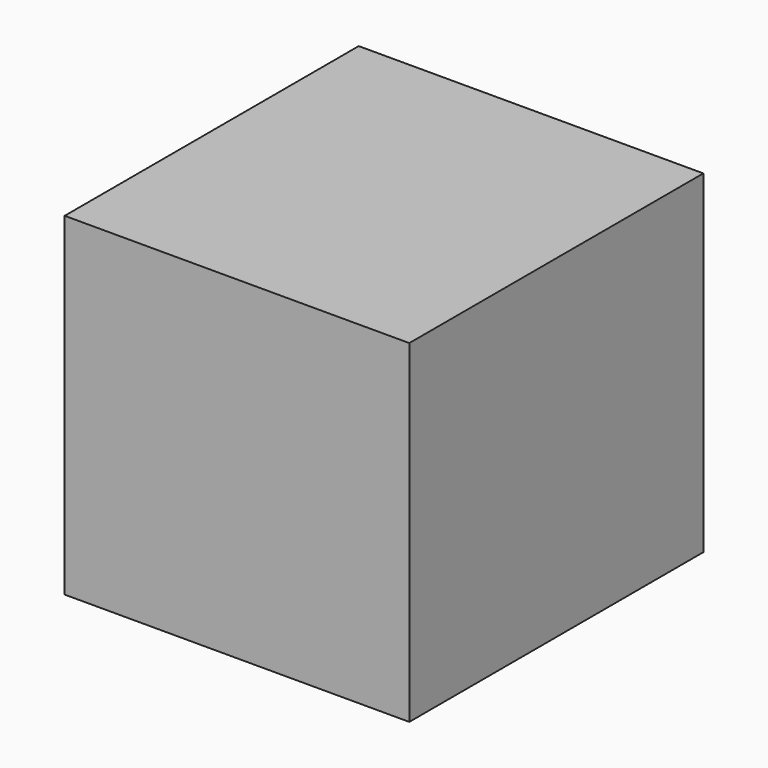
from build123d import *

# Parameters (mm, degrees)
F0_W      = 46.048916
F0_H      = 43.746476
F1_DEPTH  = 50.8
F1_FACE_W = 46.048916
F1_FACE_H = 43.746476
F2_DEPTH  = 25.4
F2_FACE_W = 46.048916
F2_FACE_H = 76.2
F3_DEPTH  = 25.4
F3_FACE_W = 76.2
F3_FACE_H = 69.146476
F4_DEPTH  = 25.4


with BuildPart() as f1:
    # F0 (on Front) → F1 (new body)
    with BuildSketch(Plane.XZ):
        Rectangle(F0_W, F0_H)
    extrude(amount=F1_DEPTH)

    # F1_face (on face) → F2 (join)
    with BuildSketch(Plane.XZ.offset(50.8)):
        Rectangle(F1_FACE_W, F1_FACE_H)
    extrude(amount=F2_DEPTH)

    # F2_face (on face) → F3 (join)
    with BuildSketch(Plane(origin=(0, -38.1, -21.873238), x_dir=(1, 0, 0), z_dir=(0, 0, -1))):
        Rectangle(F2_FACE_W, F2_FACE_H)
    extrude(amount=F3_DEPTH)

    # F3_face (on face) → F4 (join)
    with BuildSketch(Plane(origin=(-23.024458, -38.1, -12.7), x_dir=(0, -1, 0), z_dir=(-1, 0, 0))):
        Rectangle(F3_FACE_W, F3_FACE_H)
    extrude(amount=F4_DEPTH)


solid = f1.part
